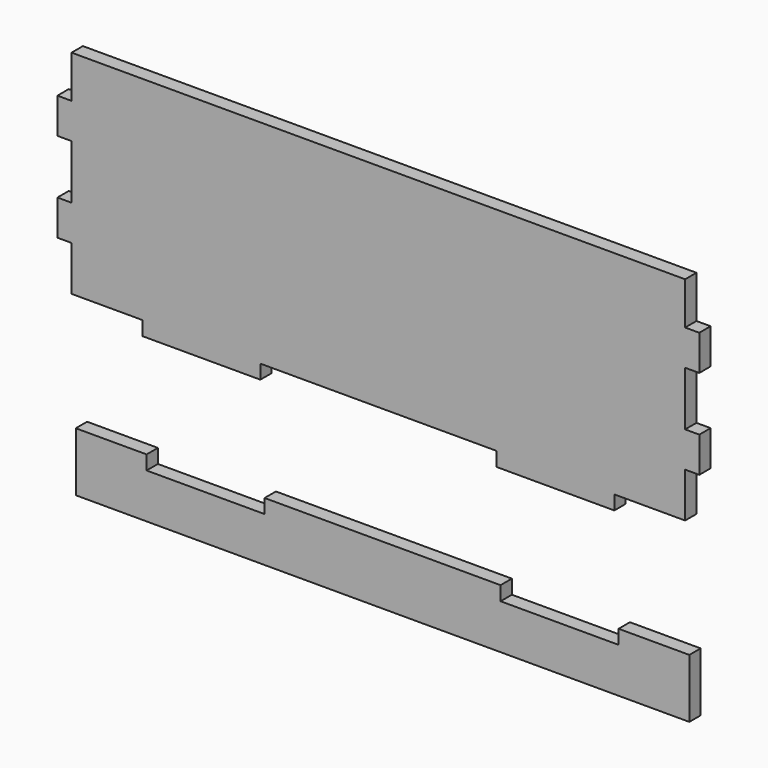
from build123d import *

# Parameters (mm, degrees)
F1_DEPTH = 6


with BuildPart() as f1:
    # F0 (on Front) → F1 (new body)
    with BuildSketch(Plane.XZ):
        Polygon((214.995691, 108.357728), (-45.004309, 108.357728), (-45.004309, 90.357728), (-51.004309, 90.357728), (-51.004309, 75.357728), (-45.004309, 75.357728), (-45.004309, 52.357728), (-51.004309, 52.357728), (-51.004309, 37.357728), (-45.004309, 37.357728), (-45.004309, 18.357728), (-15.004309, 18.357728), (-15.004309, 12.357728), (34.995691, 12.357728), (34.995691, 18.357728), (134.995691, 18.357728), (134.995691, 12.357728), (184.995691, 12.357728), (184.995691, 18.357728), (214.995691, 18.357728), (214.995691, 37.357728), (220.995691, 37.357728), (220.995691, 52.357728), (214.995691, 52.357728), (214.995691, 75.357728), (220.995691, 75.357728), (220.995691, 90.357728), (214.995691, 90.357728), align=None)
        Polygon((-13.212258, -31.184746), (-43.212258, -31.184746), (-43.212258, -56.184746), (216.787742, -56.184746), (216.787742, -31.184746), (186.787742, -31.184746), (186.787742, -37.184746), (136.787742, -37.184746), (136.787742, -31.184746), (36.787742, -31.184746), (36.787742, -37.184746), (-13.212258, -37.184746), align=None)
    extrude(amount=F1_DEPTH)


solid = f1.part
